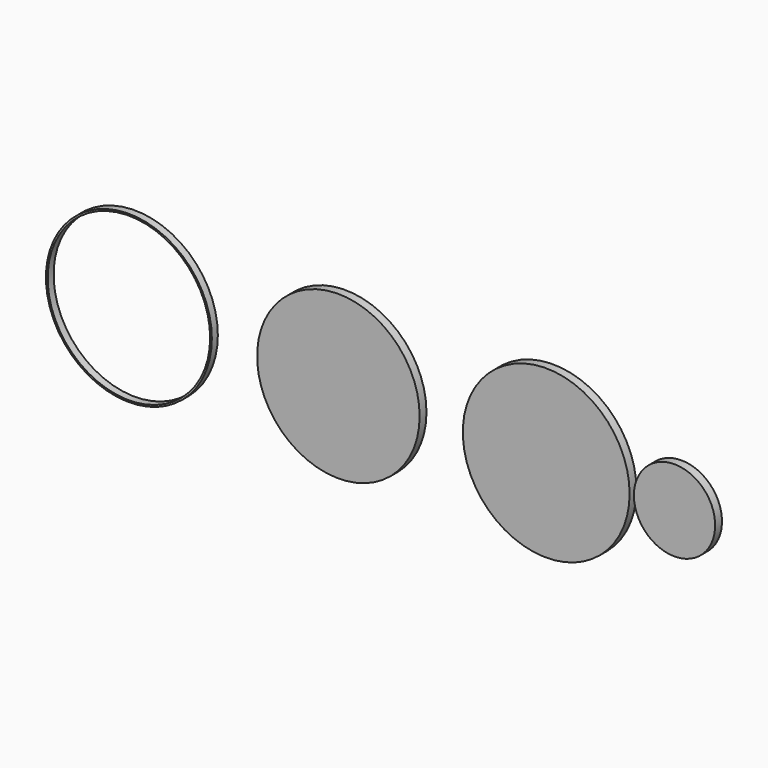
from build123d import *

# Parameters (mm, degrees)
F0_R     = 19.5
F0_R_2   = 19
F1_DEPTH = 2
F0_R_3   = 19.4
F2_DEPTH = 1.75


with BuildPart() as f1:
    # F0 (on Front) → F1 (new body)
    with BuildSketch(Plane.XZ):
        Circle(F0_R)
        with BuildLine():
            ThreePointArc((39.5, 0), (30, 9.5), (20.5, 0))
            ThreePointArc((20.5, 0), (30, -9.5), (39.5, 0))
        make_face()
        with Locations((-48.598319, 0)):
            Circle(F0_R_2)
    extrude(amount=F1_DEPTH)


with BuildPart() as f2:
    # F0 (on Front) → F2 (new body)
    with BuildSketch(Plane.XZ):
        with Locations((-97.781233, 0)):
            Circle(F0_R_3)
        with Locations((-97.781233, 0)):
            Circle(F0_R_2, mode=Mode.SUBTRACT)
    extrude(amount=F2_DEPTH)


solid = Compound([f1.part, f2.part])
